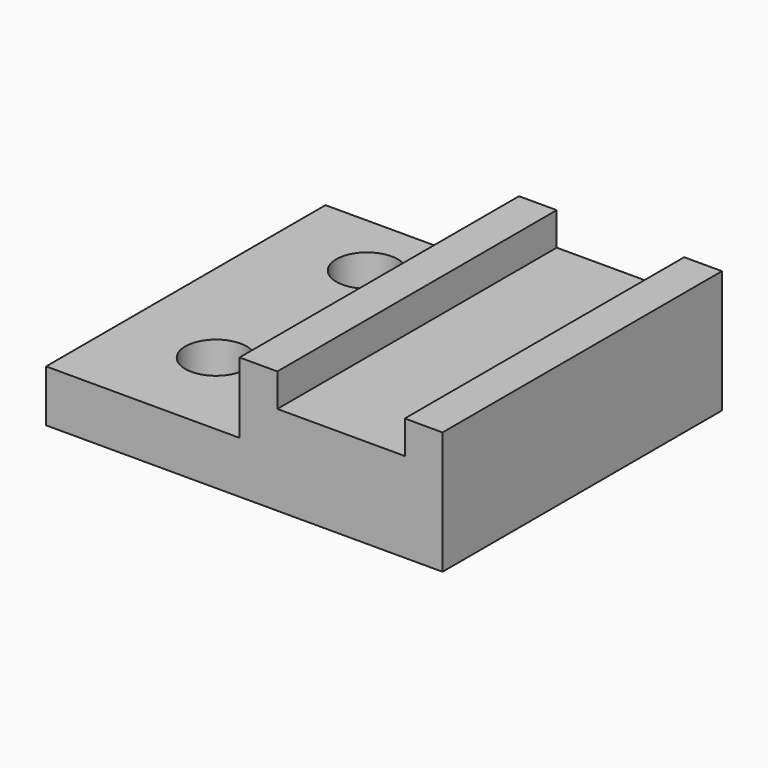
from build123d import *

# Parameters (mm, degrees)
F1_DEPTH = 41.275
F0_W     = 42.8625
F0_H     = 117.475
F2_DEPTH = 30.1625
F0_W_2   = 12.7
F3_DEPTH = 41.275
F0_R     = 10.31875
F4_DEPTH = 17.4625


with BuildPart() as f1:
    # F0 (on Top) → F1 (new body)
    with BuildSketch(Plane.XY):
        Polygon((-1.5875, -58.7375), (11.1125, -58.7375), (11.1125, 58.7375), (-1.5875, 58.7375), (-1.5875, 4.7625), align=None)
    extrude(amount=F1_DEPTH)

    # F0 (on Top) → F2 (join)
    with BuildSketch(Plane.XY):
        with Locations((32.54375, 0)):
            Rectangle(F0_W, F0_H)
    extrude(amount=F2_DEPTH)

    # F0 (on Top) → F3 (join)
    with BuildSketch(Plane.XY):
        with Locations((60.325, 0)):
            Rectangle(F0_W_2, F0_H)
    extrude(amount=F3_DEPTH)

    # F0 (on Top) → F4 (join)
    with BuildSketch(Plane.XY):
        Polygon((-66.675, -58.7375), (-1.5875, -58.7375), (-1.5875, 4.7625), (-1.5875, 58.7375), (-66.675, 58.7375), align=None)
        with Locations((-34.925, -26.9875)):
            Circle(F0_R, mode=Mode.SUBTRACT)
        with Locations((-34.925, 36.5125)):
            Circle(F0_R, mode=Mode.SUBTRACT)
    extrude(amount=F4_DEPTH)


solid = f1.part
